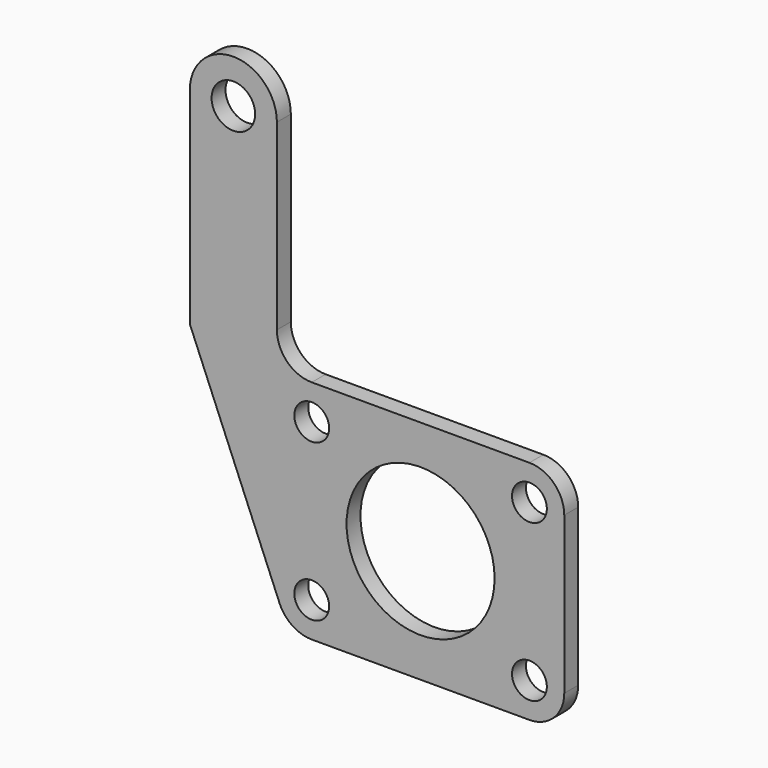
from build123d import *

# Parameters (mm, degrees)
F0_R     = 10
F0_R_2   = 42.5
F0_R_3   = 12.5
F1_DEPTH = 10


with BuildPart() as f1:
    # F0 (on Front) → F1 (new body)
    with BuildSketch(Plane.XZ):
        with BuildLine():
            ThreePointArc((20, 0), (14.142136, 14.142136), (0, 20))
            Line((0, 20), (-125, 20))
            ThreePointArc((-125, 20), (-139.142136, 25.857864), (-145, 40))
            Line((-145, 40), (-145, 145))
            ThreePointArc((-145, 145), (-170, 170), (-195, 145))
            Line((-195, 145), (-195, 26.732431))
            Line((-195, 26.732431), (-143.477591, -97.653669))
            ThreePointArc((-143.477591, -97.653669), (-136.111405, -106.629392), (-125, -110))
            Line((-125, -110), (0, -110))
            ThreePointArc((0, -110), (14.142136, -104.142136), (20, -90))
            Line((20, -90), (20, 0))
        make_face()
        with Locations((-125, -90)):
            Circle(F0_R, mode=Mode.SUBTRACT)
        with Locations((-125, 0)):
            Circle(F0_R, mode=Mode.SUBTRACT)
        with Locations((-62.5, -45)):
            Circle(F0_R_2, mode=Mode.SUBTRACT)
        with Locations((0, -90)):
            Circle(F0_R, mode=Mode.SUBTRACT)
        Circle(F0_R, mode=Mode.SUBTRACT)
        with Locations((-170, 145)):
            Circle(F0_R_3, mode=Mode.SUBTRACT)
    extrude(amount=F1_DEPTH)


solid = f1.part
